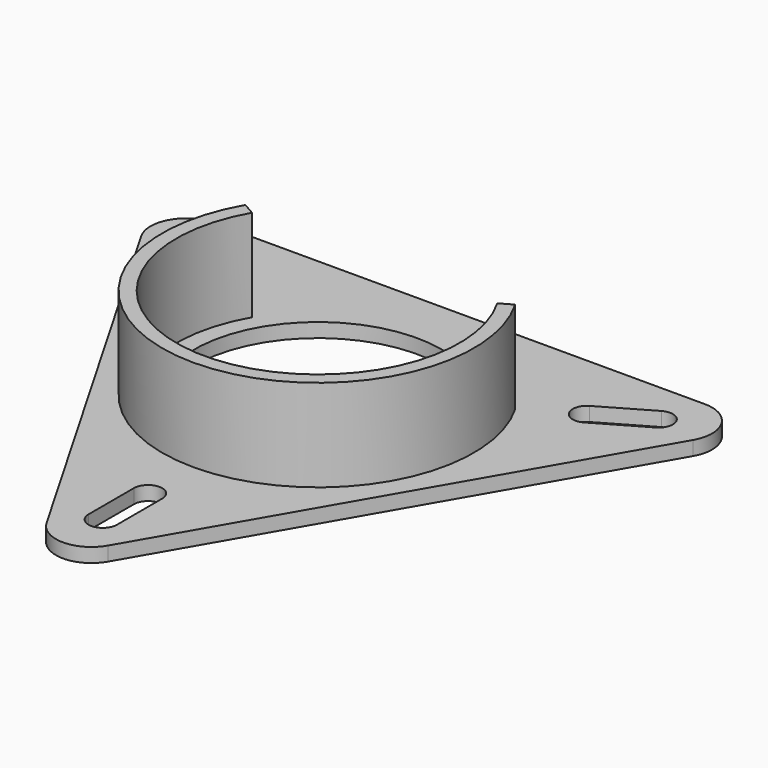
from build123d import *

# Parameters (mm, degrees)
F0_R     = 17.5
F1_DEPTH = 2
F2_DEPTH = 15


with BuildPart() as f1:
    # F0 (on Top) → F1 (new body)
    with BuildSketch(Plane.XY):
        with BuildLine():
            Line((34.641016, 25), (-34.641016, 25))
            ThreePointArc((-34.641016, 25), (-38.971143, 22.5), (-38.971143, 17.5))
            Line((-38.971143, 17.5), (-4.330127, -42.5))
            ThreePointArc((-4.330127, -42.5), (0, -45), (4.330127, -42.5))
            Line((4.330127, -42.5), (38.971143, 17.5))
            ThreePointArc((38.971143, 17.5), (38.971143, 22.5), (34.641016, 25))
        make_face()
        with BuildLine():
            ThreePointArc((2, -38), (0, -40), (-2, -38))
            Line((-2, -38), (-2, -30))
            ThreePointArc((-2, -30), (0, -28), (2, -30))
            Line((2, -30), (2, -38))
        make_face(mode=Mode.SUBTRACT)
        with BuildLine():
            ThreePointArc((-33.908965, 17.267949), (-34.641016, 20), (-31.908965, 20.732051))
            Line((-31.908965, 20.732051), (-24.980762, 16.732051))
            ThreePointArc((-24.980762, 16.732051), (-24.248711, 14), (-26.980762, 13.267949))
            Line((-26.980762, 13.267949), (-33.908965, 17.267949))
        make_face(mode=Mode.SUBTRACT)
        with BuildLine():
            Line((-19.052559, 11), (-17.320508, 10))
            ThreePointArc((-17.320508, 10), (0, -20), (17.320508, 10))
            Line((17.320508, 10), (19.052559, 11))
            ThreePointArc((19.052559, 11), (0, -22), (-19.052559, 11))
        make_face(mode=Mode.SUBTRACT)
        Circle(F0_R, mode=Mode.SUBTRACT)
        with BuildLine():
            ThreePointArc((31.908965, 20.732051), (34.641016, 20), (33.908965, 17.267949))
            Line((33.908965, 17.267949), (26.980762, 13.267949))
            ThreePointArc((26.980762, 13.267949), (24.248711, 14), (24.980762, 16.732051))
            Line((24.980762, 16.732051), (31.908965, 20.732051))
        make_face(mode=Mode.SUBTRACT)
    extrude(amount=F1_DEPTH)

    # F0 (on Top) → F2 (join)
    with BuildSketch(Plane.XY):
        with BuildLine():
            ThreePointArc((17.320508, 10), (0, -20), (-17.320508, 10))
            Line((-17.320508, 10), (-19.052559, 11))
            ThreePointArc((-19.052559, 11), (0, -22), (19.052559, 11))
            Line((19.052559, 11), (17.320508, 10))
        make_face()
    extrude(amount=F2_DEPTH)


solid = f1.part
